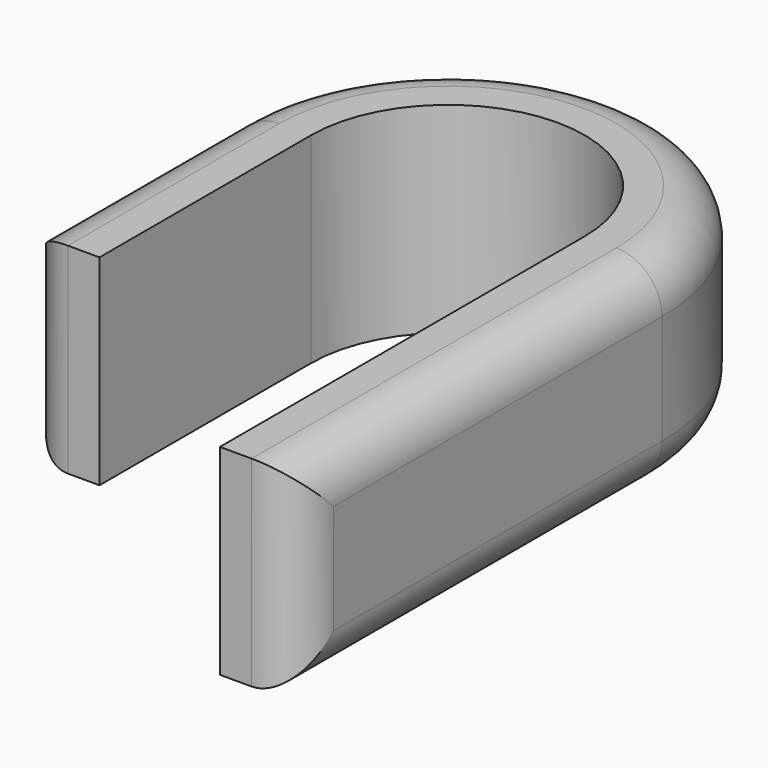
from build123d import *

# Parameters (mm, degrees)
F1_DEPTH = 22
F2_R     = 5


with BuildPart() as f1:
    # F0 (on Top) → F1 (new body)
    with BuildSketch(Plane.XY):
        with BuildLine():
            ThreePointArc((-15, -18.046904), (-21.244914, -9.967164), (-23.466801, 0))
            Line((-23.466801, 0), (-23.466801, -29))
            Line((-23.466801, -29), (-15, -29))
            Line((-15, -29), (-15, -18.046904))
        make_face()
        with BuildLine():
            Line((23.466801, -50), (23.466801, 0))
            ThreePointArc((23.466801, 0), (21.244914, -9.967164), (15, -18.046904))
            Line((15, -18.046904), (15, -50))
            Line((15, -50), (23.466801, -50))
        make_face()
        with BuildLine():
            ThreePointArc((15, -18.046904), (21.244914, -9.967164), (23.466801, 0))
            ThreePointArc((23.466801, 0), (0, 23.466801), (-23.466801, 0))
            ThreePointArc((-23.466801, 0), (-21.244914, -9.967164), (-15, -18.046904))
            Line((-15, -18.046904), (-15, 0))
            ThreePointArc((-15, 0), (0, 15), (15, 0))
            Line((15, 0), (15, -18.046904))
        make_face()
    extrude(amount=F1_DEPTH)

    # F2
    f2_edges = [f1.edges().sort_by_distance(p)[0] for p in [
        (23.466801, -50, 11),
        (-23.466801, -14.5, 22),
        (23.466801, -25, 0),
        (-23.466801, -29, 11),
    ]]
    fillet(f2_edges, radius=F2_R)


solid = f1.part
